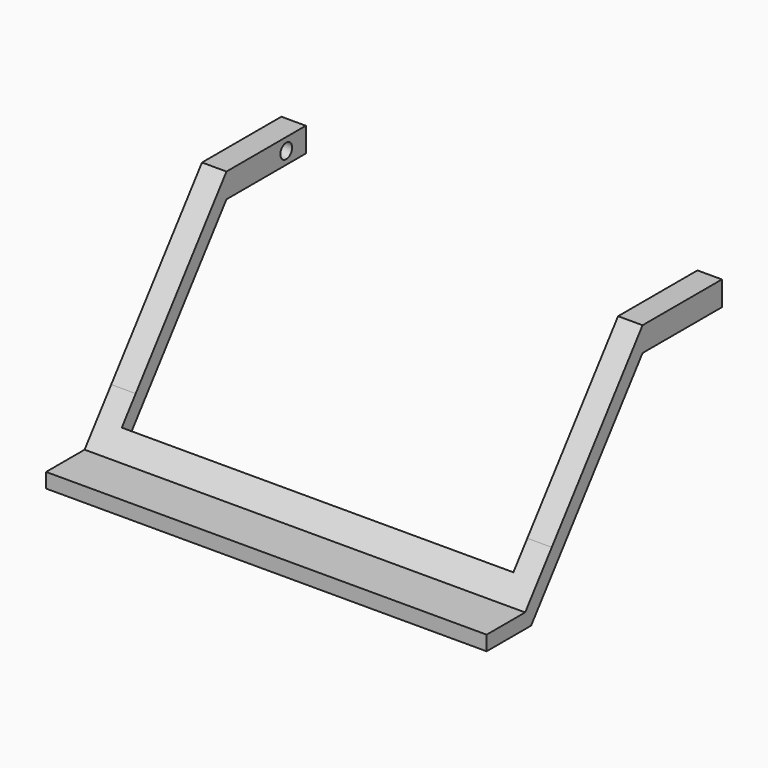
from build123d import *

# Parameters (mm, degrees)
F0_W          = 25.7408986799
F0_H          = 6.35
F1_DEPTH      = 114.3
F2_W          = 101.6
F2_H          = 25.7408986799
F2_H_2        = 33.9491013201
F3_DEPTH      = 127
F5_R          = 1.905
F6_DEPTH      = 53.34
F6_DEPTH_BACK = 53.34


with BuildPart() as f1:
    # F0 (on Right) → F1 (new body)
    with BuildSketch(Plane.YZ):
        with Locations((-8.492361987, 0)):
            Rectangle(F0_W, F0_H)
        Polygon((-21.362811327, 3.175), (-50.8, -35.5794671973), (-50.8, -41.9294671973), (-21.362811327, -3.175), align=None)
        Polygon((-62.3238671319, -50.7507981185), (-59.429860403, -46.9407981185), (-71.9224512577, -46.9407981185), (-71.9224512577, -50.7507981185), align=None)
        Polygon((-50.8, -41.9294671973), (-50.8, -35.5794671973), (-59.429860403, -46.9407981185), (-57.5005225837, -46.9407981185), (-57.5005225837, -50.7507981185), align=None)
        Polygon((-57.5005225837, -46.9407981185), (-59.429860403, -46.9407981185), (-62.3238671319, -50.7507981185), (-57.5005225837, -50.7507981185), align=None)
    extrude(amount=F1_DEPTH)

    # F2 (on face) → F3 (cut)
    with BuildSketch(Plane.XY.offset(3.175)):
        with Locations((57.15, -8.492361987)):
            Rectangle(F2_W, F2_H)
        with Locations((57.15, -38.337361987)):
            Rectangle(F2_W, F2_H_2)
    extrude(amount=-F3_DEPTH, mode=Mode.SUBTRACT)

    # F5 (on offset) → F6 (cut, two sides)
    with BuildSketch(Plane(origin=(57.15, 0, 0), x_dir=(0, -1, 0), z_dir=(-1, 0, 0))) as f6_sk:
        with Locations((1.971912647, 0)):
            Circle(F5_R)
    extrude(amount=-F6_DEPTH, mode=Mode.SUBTRACT)
    extrude(f6_sk.sketch, amount=F6_DEPTH_BACK, mode=Mode.SUBTRACT)


solid = f1.part
